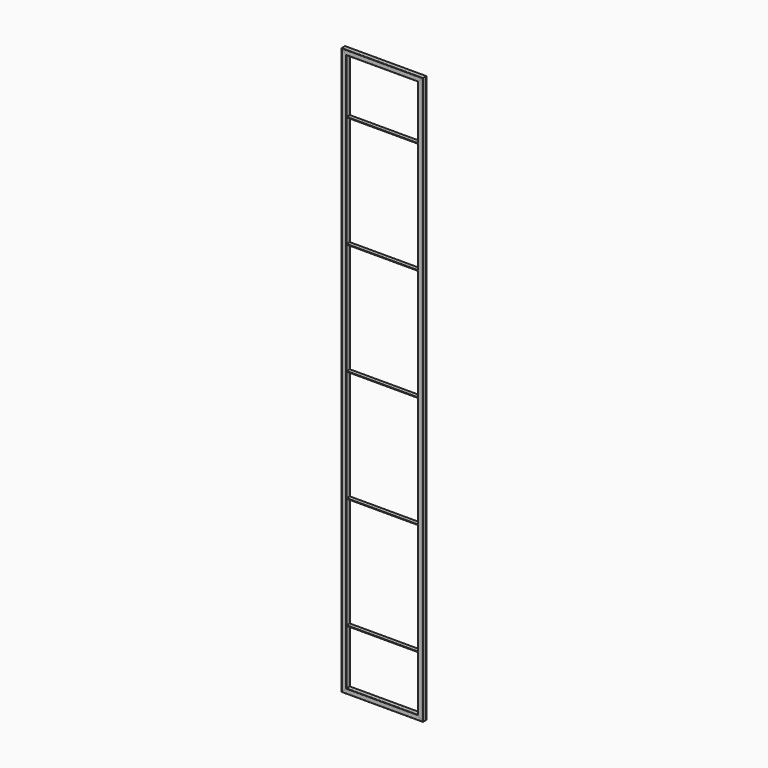
from build123d import *

# Parameters (mm, degrees)
F5_W      = 16
F5_H      = 16
F6_DEPTH  = 950
F7_R      = 1.5
F8_T      = -1
F10_DEPTH = 16.001
F12_DEPTH = 16
F13_R     = 1.5
F14_T     = -1
F17_W     = 13
F17_H     = 2
F18_DEPTH = 240


with BuildPart() as f6:
    # F5 (on Top) → F6 (new body, symmetric)
    with BuildSketch(Plane.XY):
        with Locations((-128, 0)):
            Rectangle(F5_W, F5_H)
    extrude(amount=F6_DEPTH, both=True)

    # F7
    f7_edges = [f6.edges().sort_by_distance(p)[0] for p in [
        (-120, -8, 0),
        (-120, 8, 0),
        (-136, 8, 0),
        (-136, -8, 0),
    ]]
    fillet(f7_edges, radius=F7_R)

    # F8
    f8_openings = [f6.faces().sort_by_distance(p)[0] for p in [
        (-128, 0, 950),
        (-128, 0, -950),
    ]]
    offset(amount=F8_T, openings=f8_openings)

    # F9 (on face) → F10 (cut, through all)
    with BuildSketch(Plane.XZ.offset(8)):
        Polygon((-120, 950), (-136, 950), (-120, 934), align=None)
        Polygon((-120, -934), (-136, -950), (-120, -950), align=None)
    extrude(amount=-F10_DEPTH, mode=Mode.SUBTRACT)


with BuildPart() as f12:
    # F11 (on face) → F12 (new body)
    with BuildSketch(Plane.XZ.offset(8)):
        Polygon((136, 950), (-136, 950), (-120, 934), (120, 934), align=None)
    extrude(amount=-F12_DEPTH)

    # F13
    f13_edges = [f12.edges().sort_by_distance(p)[0] for p in [
        (0, -8, 950),
        (0, -8, 934),
        (0, 8, 934),
        (0, 8, 950),
    ]]
    fillet(f13_edges, radius=F13_R)

    # F14
    f14_openings = [f12.faces().sort_by_distance(p)[0] for p in [
        (128, 0, 942),
        (-128, 0, 942),
    ]]
    offset(amount=F14_T, openings=f14_openings)


with BuildPart() as f15_1:
    # F15: instance of F6
    add(f6.part.mirror(Plane.YZ))


with BuildPart() as f16_1:
    # F16: instance of F12
    add(f12.part.mirror(Plane.XY))


with BuildPart() as f18:
    # F17 (on face) → F18 (new body)
    with BuildSketch(Plane.YZ.offset(-120)):
        with Locations((0, -749)):
            Rectangle(F17_W, F17_H)
    extrude(amount=F18_DEPTH)


with BuildPart() as f18b:
    # F17 (on face) → F18, piece 2 (new body)
    with BuildSketch(Plane.YZ.offset(-120)):
        with Locations((0, 751)):
            Rectangle(F17_W, F17_H)
    extrude(amount=F18_DEPTH)


with BuildPart() as f18c:
    # F17 (on face) → F18, piece 3 (new body)
    with BuildSketch(Plane.YZ.offset(-120)):
        with Locations((0, 376)):
            Rectangle(F17_W, F17_H)
    extrude(amount=F18_DEPTH)


with BuildPart() as f18d:
    # F17 (on face) → F18, piece 4 (new body)
    with BuildSketch(Plane.YZ.offset(-120)):
        with Locations((0, 1)):
            Rectangle(F17_W, F17_H)
    extrude(amount=F18_DEPTH)


with BuildPart() as f18e:
    # F17 (on face) → F18, piece 5 (new body)
    with BuildSketch(Plane.YZ.offset(-120)):
        with Locations((0, -374)):
            Rectangle(F17_W, F17_H)
    extrude(amount=F18_DEPTH)


solid = Compound([f6.part, f12.part, f15_1.part, f16_1.part, f18.part, f18b.part, f18c.part, f18d.part, f18e.part])
